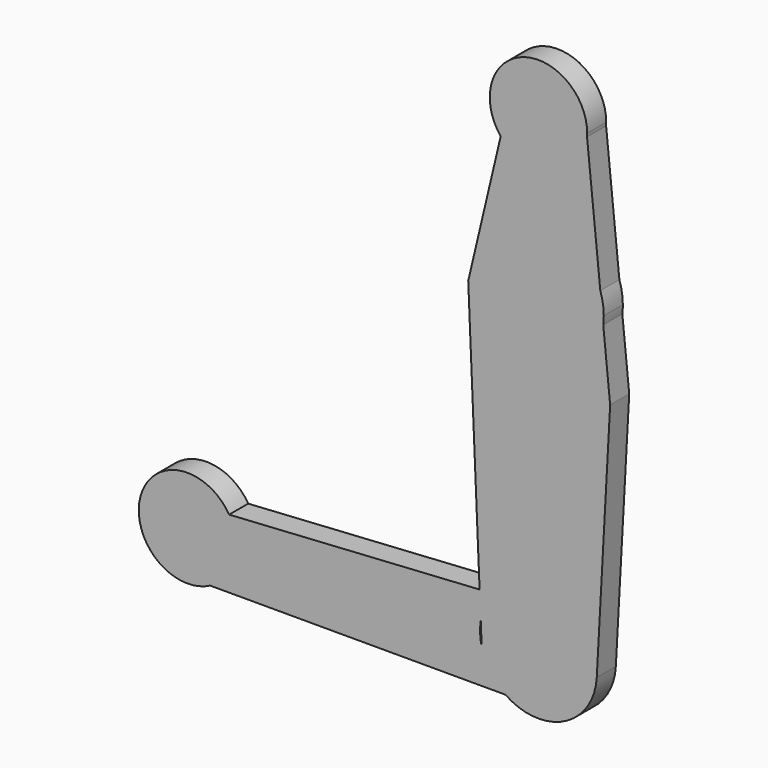
from build123d import *

# Parameters (mm, degrees)
F1_DEPTH = 3.048


with BuildPart() as f1:
    # F0 (on Front) → F1 (new body)
    with BuildSketch(Plane.XZ):
        with BuildLine():
            ThreePointArc((6.209856088, 64.9557709646), (6.2206928765, 65.1675907882), (6.224306538, 65.3796568513))
            ThreePointArc((6.224306538, 65.3796568513), (-2.0871396142, 71.2436009258), (-4.824583776, 61.4470517012))
            ThreePointArc((-4.824583776, 61.4470517012), (-2.6706040451, 59.7573916572), (0, 59.1553503133))
            ThreePointArc((0, 59.1553503133), (4.2487407654, 60.8310093834), (6.209856088, 64.9557709646))
        make_face()
        with BuildLine():
            ThreePointArc((0, 59.1553503133), (-2.6706040451, 59.7573916572), (-4.824583776, 61.4470517012))
            Line((-4.824583776, 61.4470517012), (-8.1232850213, 47.4475871287))
            ThreePointArc((-8.1232850213, 47.4475871287), (-5.1805872599, 52.0766598943), (0, 53.8792414952))
            Line((0, 53.8792414952), (0, 59.1553503133))
        make_face()
        with BuildLine():
            Line((7.9024256694, 48.2173679334), (6.209856088, 64.9557709646))
            ThreePointArc((6.209856088, 64.9557709646), (4.2487407654, 60.8310093834), (0, 59.1553503133))
            Line((0, 59.1553503133), (0, 53.8792414952))
            ThreePointArc((0, 53.8792414952), (4.8606878035, 52.3176828203), (7.9024256694, 48.2173679334))
        make_face()
        with BuildLine():
            ThreePointArc((0, 53.8792414952), (-5.1805872599, 52.0766598943), (-8.1232850213, 47.4475871287))
            ThreePointArc((-8.1232850213, 47.4475871287), (-6.5431667331, 40.3529059013), (0, 37.1877448272))
            Line((0, 37.1877448272), (0, 53.8792414952))
        make_face()
        with BuildLine():
            ThreePointArc((0, 37.1877448272), (-6.5431667331, 40.3529059013), (-8.1232850213, 47.4475871287))
            Line((-8.1232850213, 47.4475871287), (-8.9761791751, 43.8279621303))
            Line((-8.9761791751, 43.8279621303), (-7.522948678, 9.569606592))
            Line((-7.522948678, 9.569606592), (-5.7813609054, 9.6774364228))
            ThreePointArc((-5.7813609054, 9.6774364228), (-3.1997914593, 11.7007529388), (0, 12.4216171046))
            Line((0, 12.4216171046), (0, 37.1877448272))
        make_face()
        with BuildLine():
            Line((8.2797434874, 44.4859421904), (7.9024256694, 48.2173679334))
            ThreePointArc((7.9024256694, 48.2173679334), (4.8606878035, 52.3176828203), (0, 53.8792414952))
            Line((0, 53.8792414952), (0, 37.1877448272))
            ThreePointArc((0, 37.1877448272), (5.5185559019, 39.2727379343), (8.2797434874, 44.4859421904))
        make_face()
        with BuildLine():
            ThreePointArc((8.345748334, 45.5334931612), (8.2341718199, 46.893614367), (7.9024256694, 48.2173679334))
            Line((7.9024256694, 48.2173679334), (8.2797434874, 44.4859421904))
            ThreePointArc((8.2797434874, 44.4859421904), (8.3292307769, 45.0086789855), (8.345748334, 45.5334931612))
        make_face()
        with BuildLine():
            ThreePointArc((8.2797434874, 44.4859421904), (5.5185559019, 39.2727379343), (0, 37.1877448272))
            Line((0, 37.1877448272), (0, 12.4216171046))
            ThreePointArc((0, 12.4216171046), (5.2764963843, 10.2360207404), (7.4620927485, 4.9595243561))
            ThreePointArc((7.4620927485, 4.9595243561), (7.4592970858, 4.7552814289), (7.4509121924, 4.5511915405))
            Line((7.4509121924, 4.5511915405), (9.1615496203, 35.7654578984))
            Line((9.1615496203, 35.7654578984), (8.2797434874, 44.4859421904))
        make_face()
        with BuildLine():
            ThreePointArc((7.4620927485, 4.9595243561), (5.2764963843, 10.2360207404), (0, 12.4216171046))
            ThreePointArc((0, 12.4216171046), (-3.1997914593, 11.7007529388), (-5.7813609054, 9.6774364228))
            ThreePointArc((-5.7813609054, 9.6774364228), (-6.8181639984, 7.9919273436), (-7.3754788979, 6.0931641639))
            Line((-7.3754788979, 6.0931641639), (-7.2529785413, 3.2053492032))
            ThreePointArc((-7.2529785413, 3.2053492032), (-6.1468484582, 0.7287936603), (-4.2285927984, -1.1887950186))
            ThreePointArc((-4.2285927984, -1.1887950186), (3.2913062747, -1.737499699), (7.4509121924, 4.5511915405))
            ThreePointArc((7.4509121924, 4.5511915405), (7.4592970858, 4.7552814289), (7.4620927485, 4.9595243561))
        make_face()
        with BuildLine():
            Line((-5.7813609054, 9.6774364228), (-7.522948678, 9.569606592))
            Line((-7.522948678, 9.569606592), (-7.3754788979, 6.0931641639))
            ThreePointArc((-7.3754788979, 6.0931641639), (-6.8181639984, 7.9919273436), (-5.7813609054, 9.6774364228))
        make_face()
        with BuildLine():
            Line((-7.3754788979, 6.0931641639), (-7.522948678, 9.569606592))
            Line((-7.522948678, 9.569606592), (-39.5340041513, 7.5876526823))
            ThreePointArc((-39.5340041513, 7.5876526823), (-38.8517853204, 6.0251107225), (-38.6185603593, 4.3361566003))
            ThreePointArc((-38.6185603593, 4.3361566003), (-38.6444768889, 3.7683918186), (-38.7220109269, 3.2053492032))
            Line((-38.7220109269, 3.2053492032), (-7.2529785413, 3.2053492032))
            ThreePointArc((-7.2529785413, 3.2053492032), (-7.4553880231, 4.6432687427), (-7.3754788979, 6.0931641639))
        make_face()
        with BuildLine():
            ThreePointArc((-38.6185603593, 4.3361566003), (-38.8517853204, 6.0251107225), (-39.5340041513, 7.5876526823))
            ThreePointArc((-39.5340041513, 7.5876526823), (-50.8562066327, 6.0011927176), (-41.9672696546, -1.1887950186))
            ThreePointArc((-41.9672696546, -1.1887950186), (-39.8375427183, 0.6337643909), (-38.7220109269, 3.2053492032))
            ThreePointArc((-38.7220109269, 3.2053492032), (-38.6444768889, 3.7683918186), (-38.6185603593, 4.3361566003))
        make_face()
        with BuildLine():
            ThreePointArc((-4.2285927984, -1.1887950186), (-6.1468484582, 0.7287936603), (-7.2529785413, 3.2053492032))
            Line((-7.2529785413, 3.2053492032), (-38.7220109269, 3.2053492032))
            ThreePointArc((-38.7220109269, 3.2053492032), (-39.8375427183, 0.6337643909), (-41.9672696546, -1.1887950186))
            Line((-41.9672696546, -1.1887950186), (-4.2285927984, -1.1887950186))
        make_face()
    extrude(amount=F1_DEPTH)


solid = f1.part
